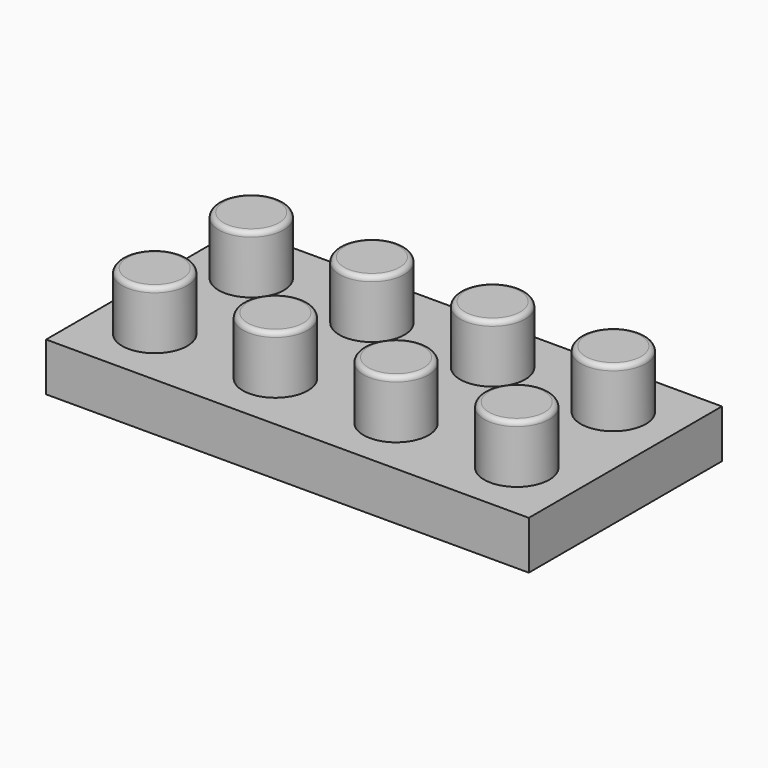
from build123d import *

# Parameters (mm, degrees)
F0_R     = 1.35
F1_DEPTH = 2.4
F2_W     = 20
F2_H     = 10
F3_DEPTH = 2
F4_R     = 0.2


with BuildPart() as f1:
    # F0 (on Top) → F1 (new body)
    with BuildSketch(Plane.XY):
        Circle(F0_R)
        with Locations((0, 5)):
            Circle(F0_R)
        with Locations((5, 0)):
            Circle(F0_R)
        with Locations((5, 5)):
            Circle(F0_R)
        with Locations((10, 0)):
            Circle(F0_R)
        with Locations((10, 5)):
            Circle(F0_R)
        with Locations((15, 0)):
            Circle(F0_R)
        with Locations((15, 5)):
            Circle(F0_R)
    extrude(amount=F1_DEPTH)

    # F2 (on Top) → F3 (join)
    with BuildSketch(Plane.XY):
        with Locations((7.5, 2.5)):
            Rectangle(F2_W, F2_H)
    extrude(amount=-F3_DEPTH)

    # F4
    f4_edges = [f1.edges().sort_by_distance(p)[0] for p in [
        (-1.35, 5, 2.4),
        (3.65, 5, 2.4),
        (8.65, 5, 2.4),
        (13.65, 5, 2.4),
        (13.65, 0, 2.4),
        (8.65, 0, 2.4),
        (3.65, 0, 2.4),
        (-1.35, 0, 2.4),
    ]]
    fillet(f4_edges, radius=F4_R)


solid = f1.part
